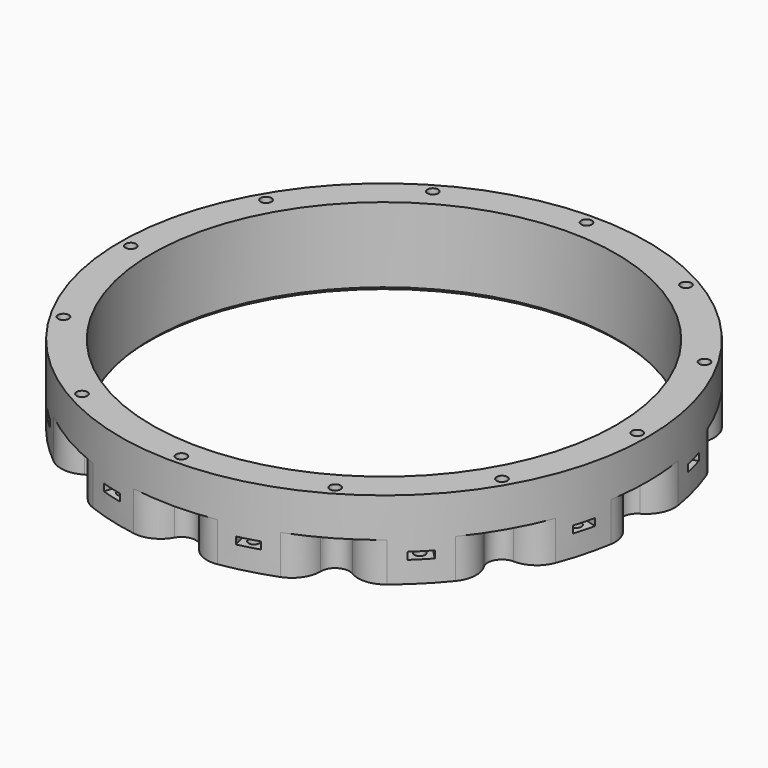
from build123d import *

# Parameters (mm, degrees)
CYLINDER2100_R               = 1.5
CYLINDER2100_DEPTH           = 32
CYLINDER2100_PLACEMENT_ANGLE = 30
CYLINDER2099_R               = 1.5
CYLINDER2099_DEPTH           = 32
CYLINDER2099_PLACEMENT_ANGLE = 60
CYLINDER2104_R               = 1.5
CYLINDER2104_DEPTH           = 32
CYLINDER2105_R               = 1.5
CYLINDER2105_DEPTH           = 32
CYLINDER2105_PLACEMENT_ANGLE = 120
CYLINDER2106_R               = 1.5
CYLINDER2106_DEPTH           = 32
CYLINDER2106_PLACEMENT_ANGLE = 150
CYLINDER2103_R               = 1.5
CYLINDER2103_DEPTH           = 32
CYLINDER2110_R               = 1.5
CYLINDER2110_DEPTH           = 32
CYLINDER2110_PLACEMENT_ANGLE = 210
CYLINDER2109_R               = 1.5
CYLINDER2109_DEPTH           = 32
CYLINDER2109_PLACEMENT_ANGLE = 240
CYLINDER2108_R               = 1.5
CYLINDER2108_DEPTH           = 32
CYLINDER2101_R               = 1.5
CYLINDER2101_DEPTH           = 32
CYLINDER2101_PLACEMENT_ANGLE = 60
CYLINDER2107_R               = 1.5
CYLINDER2107_DEPTH           = 32
CYLINDER2107_PLACEMENT_ANGLE = 30
CYLINDER2102_R               = 1.5
CYLINDER2102_DEPTH           = 32
COMPOUND1114_PLACEMENT_ANGLE = 15
BOX997_W                     = 6
BOX997_H                     = 8
BOX997_DEPTH                 = 2
BOX997_PLACEMENT_ANGLE       = 30
BOX1001_W                    = 6
BOX1001_H                    = 8
BOX1001_DEPTH                = 2
BOX1001_PLACEMENT_ANGLE      = 60
BOX993_W                     = 6
BOX993_H                     = 8
BOX993_DEPTH                 = 2
BOX992_W                     = 6
BOX992_H                     = 8
BOX992_DEPTH                 = 2
BOX992_PLACEMENT_ANGLE       = 120
BOX999_W                     = 6
BOX999_H                     = 8
BOX999_DEPTH                 = 2
BOX999_PLACEMENT_ANGLE       = 150
BOX994_W                     = 6
BOX994_H                     = 8
BOX994_DEPTH                 = 2
BOX998_W                     = 6
BOX998_H                     = 8
BOX998_DEPTH                 = 2
BOX998_PLACEMENT_ANGLE       = 210
BOX995_W                     = 6
BOX995_H                     = 8
BOX995_DEPTH                 = 2
BOX995_PLACEMENT_ANGLE       = 240
BOX1000_W                    = 6
BOX1000_H                    = 8
BOX1000_DEPTH                = 2
BOX1002_W                    = 6
BOX1002_H                    = 8
BOX1002_DEPTH                = 2
BOX1002_PLACEMENT_ANGLE      = 60
BOX1003_W                    = 6
BOX1003_H                    = 8
BOX1003_DEPTH                = 2
BOX1003_PLACEMENT_ANGLE      = 30
BOX996_W                     = 6
BOX996_H                     = 8
BOX996_DEPTH                 = 2
COMPOUND1113_PLACEMENT_ANGLE = 15
CYLINDER2031_R               = 4
CYLINDER2031_DEPTH           = 32
CYLINDER2031_PLACEMENT_ANGLE = 30
CYLINDER2030_R               = 4
CYLINDER2030_DEPTH           = 32
CYLINDER2030_PLACEMENT_ANGLE = 60
CYLINDER2035_R               = 4
CYLINDER2035_DEPTH           = 32
CYLINDER2036_R               = 4
CYLINDER2036_DEPTH           = 32
CYLINDER2036_PLACEMENT_ANGLE = 120
CYLINDER2037_R               = 4
CYLINDER2037_DEPTH           = 32
CYLINDER2037_PLACEMENT_ANGLE = 150
CYLINDER2034_R               = 4
CYLINDER2034_DEPTH           = 32
CYLINDER2039_R               = 4
CYLINDER2039_DEPTH           = 32
CYLINDER2039_PLACEMENT_ANGLE = 210
CYLINDER2038_R               = 4
CYLINDER2038_DEPTH           = 32
CYLINDER2038_PLACEMENT_ANGLE = 240
CYLINDER2041_R               = 4
CYLINDER2041_DEPTH           = 32
CYLINDER2032_R               = 4
CYLINDER2032_DEPTH           = 32
CYLINDER2032_PLACEMENT_ANGLE = 60
CYLINDER2040_R               = 4
CYLINDER2040_DEPTH           = 32
CYLINDER2040_PLACEMENT_ANGLE = 30
CYLINDER2033_R               = 4
CYLINDER2033_DEPTH           = 32
CYLINDER2019_R               = 1.5
CYLINDER2019_DEPTH           = 72
CYLINDER2019_PLACEMENT_ANGLE = 30
CYLINDER2018_R               = 1.5
CYLINDER2018_DEPTH           = 72
CYLINDER2018_PLACEMENT_ANGLE = 60
CYLINDER2023_R               = 1.5
CYLINDER2023_DEPTH           = 72
CYLINDER2024_R               = 1.5
CYLINDER2024_DEPTH           = 72
CYLINDER2024_PLACEMENT_ANGLE = 120
CYLINDER2025_R               = 1.5
CYLINDER2025_DEPTH           = 72
CYLINDER2025_PLACEMENT_ANGLE = 150
CYLINDER2022_R               = 1.5
CYLINDER2022_DEPTH           = 72
CYLINDER2027_R               = 1.5
CYLINDER2027_DEPTH           = 72
CYLINDER2027_PLACEMENT_ANGLE = 210
CYLINDER2026_R               = 1.5
CYLINDER2026_DEPTH           = 72
CYLINDER2026_PLACEMENT_ANGLE = 240
CYLINDER2029_R               = 1.5
CYLINDER2029_DEPTH           = 72
CYLINDER2020_R               = 1.5
CYLINDER2020_DEPTH           = 72
CYLINDER2020_PLACEMENT_ANGLE = 60
CYLINDER2028_R               = 1.5
CYLINDER2028_DEPTH           = 72
CYLINDER2028_PLACEMENT_ANGLE = 30
CYLINDER2021_R               = 1.5
CYLINDER2021_DEPTH           = 72
TUBE051_R                    = 74
TUBE051_R_2                  = 65.1
TUBE051_DEPTH                = 22
FILLET_R                     = 8
FILLET001_R                  = 8
FILLET002_R                  = 8
FILLET003_R                  = 8
FILLET004_R                  = 8
CHAMFER082_SIZE              = 1


with BuildPart() as obj1:
    # Cylinder2100 → Cylinder2100 (new body)
    with BuildSketch(Plane.XY):
        Circle(CYLINDER2100_R)
    extrude(amount=CYLINDER2100_DEPTH)


with BuildPart() as obj1_1:
    # Cylinder2100 placement: moved
    add(obj1.part.moved(Location((35.5, -61.487804, 0))).rotate(Axis((35.5, -61.487804, 0), (0, 0, 1)), CYLINDER2100_PLACEMENT_ANGLE))


with BuildPart() as obj2:
    # Cylinder2099 → Cylinder2099 (new body)
    with BuildSketch(Plane.XY):
        Circle(CYLINDER2099_R)
    extrude(amount=CYLINDER2099_DEPTH)


with BuildPart() as obj2_1:
    # Cylinder2099 placement: moved
    add(obj2.part.moved(Location((61.487804, -35.5, 0))).rotate(Axis((61.487804, -35.5, 0), (0, 0, 1)), CYLINDER2099_PLACEMENT_ANGLE))


with BuildPart() as obj3:
    # Cylinder2104 → Cylinder2104 (new body)
    with BuildSketch(Plane(origin=(71, 0, 0), x_dir=(0, 1, 0), z_dir=(0, 0, 1))):
        Circle(CYLINDER2104_R)
    extrude(amount=CYLINDER2104_DEPTH)


with BuildPart() as obj4:
    # Cylinder2105 → Cylinder2105 (new body)
    with BuildSketch(Plane.XY):
        Circle(CYLINDER2105_R)
    extrude(amount=CYLINDER2105_DEPTH)


with BuildPart() as obj4_1:
    # Cylinder2105 placement: moved
    add(obj4.part.moved(Location((61.487804, 35.5, 0))).rotate(Axis((61.487804, 35.5, 0), (0, 0, 1)), CYLINDER2105_PLACEMENT_ANGLE))


with BuildPart() as obj5:
    # Cylinder2106 → Cylinder2106 (new body)
    with BuildSketch(Plane.XY):
        Circle(CYLINDER2106_R)
    extrude(amount=CYLINDER2106_DEPTH)


with BuildPart() as obj5_1:
    # Cylinder2106 placement: moved
    add(obj5.part.moved(Location((35.5, 61.487804, 0))).rotate(Axis((35.5, 61.487804, 0), (0, 0, 1)), CYLINDER2106_PLACEMENT_ANGLE))


with BuildPart() as obj6:
    # Cylinder2103 → Cylinder2103 (new body)
    with BuildSketch(Plane(origin=(0, 71, 0), x_dir=(-1, 0, 0), z_dir=(0, 0, 1))):
        Circle(CYLINDER2103_R)
    extrude(amount=CYLINDER2103_DEPTH)


with BuildPart() as obj7:
    # Cylinder2110 → Cylinder2110 (new body)
    with BuildSketch(Plane.XY):
        Circle(CYLINDER2110_R)
    extrude(amount=CYLINDER2110_DEPTH)


with BuildPart() as obj7_1:
    # Cylinder2110 placement: moved
    add(obj7.part.moved(Location((-35.5, 61.487804, 0))).rotate(Axis((-35.5, 61.487804, 0), (0, 0, 1)), CYLINDER2110_PLACEMENT_ANGLE))


with BuildPart() as obj8:
    # Cylinder2109 → Cylinder2109 (new body)
    with BuildSketch(Plane.XY):
        Circle(CYLINDER2109_R)
    extrude(amount=CYLINDER2109_DEPTH)


with BuildPart() as obj8_1:
    # Cylinder2109 placement: moved
    add(obj8.part.moved(Location((-61.487804, 35.5, 0))).rotate(Axis((-61.487804, 35.5, 0), (0, 0, 1)), CYLINDER2109_PLACEMENT_ANGLE))


with BuildPart() as obj9:
    # Cylinder2108 → Cylinder2108 (new body)
    with BuildSketch(Plane(origin=(-71, 0, 0), x_dir=(0, -1, 0), z_dir=(0, 0, 1))):
        Circle(CYLINDER2108_R)
    extrude(amount=CYLINDER2108_DEPTH)


with BuildPart() as obj10:
    # Cylinder2101 → Cylinder2101 (new body)
    with BuildSketch(Plane.XY):
        Circle(CYLINDER2101_R)
    extrude(amount=CYLINDER2101_DEPTH)


with BuildPart() as obj10_1:
    # Cylinder2101 placement: moved
    add(obj10.part.moved(Location((-61.487804, -35.5, 0))).rotate(Axis((-61.487804, -35.5, 0), (0, 0, -1)), CYLINDER2101_PLACEMENT_ANGLE))


with BuildPart() as obj11:
    # Cylinder2107 → Cylinder2107 (new body)
    with BuildSketch(Plane.XY):
        Circle(CYLINDER2107_R)
    extrude(amount=CYLINDER2107_DEPTH)


with BuildPart() as obj11_1:
    # Cylinder2107 placement: moved
    add(obj11.part.moved(Location((-35.5, -61.487804, 0))).rotate(Axis((-35.5, -61.487804, 0), (0, 0, -1)), CYLINDER2107_PLACEMENT_ANGLE))


with BuildPart() as compound1114:
    # Cylinder2102 → Cylinder2102 (new body)
    with BuildSketch(Plane(origin=(0, -71, 0), x_dir=(1, 0, 0), z_dir=(0, 0, 1))):
        Circle(CYLINDER2102_R)
    extrude(amount=CYLINDER2102_DEPTH)

    # Compound1114: union obj1, obj2, obj3, obj4, obj5, obj6, obj7, obj8, obj9, obj10, obj11
    add(obj1_1.part)
    add(obj2_1.part)
    add(obj3.part)
    add(obj4_1.part)
    add(obj5_1.part)
    add(obj6.part)
    add(obj7_1.part)
    add(obj8_1.part)
    add(obj9.part)
    add(obj10_1.part)
    add(obj11_1.part)


with BuildPart() as compound1114_1:
    # Compound1114 placement: moved
    add(compound1114.part.moved(Location((0, 0, -13))).rotate(Axis((0, 0, -13), (0, 0, 1)), COMPOUND1114_PLACEMENT_ANGLE))


with BuildPart() as krychle997:
    # Box997 → Box997 (new body)
    with BuildSketch(Plane.XY):
        with Locations((3, 4)):
            Rectangle(BOX997_W, BOX997_H)
    extrude(amount=BOX997_DEPTH)


with BuildPart() as krychle997_1:
    # Box997 placement: moved
    add(krychle997.part.moved(Location((34.901924, -66.451905, 39))).rotate(Axis((34.901924, -66.451905, 39), (0, 0, 1)), BOX997_PLACEMENT_ANGLE))


with BuildPart() as krychle1001:
    # Box1001 → Box1001 (new body)
    with BuildSketch(Plane.XY):
        with Locations((3, 4)):
            Rectangle(BOX1001_W, BOX1001_H)
    extrude(amount=BOX1001_DEPTH)


with BuildPart() as krychle1001_1:
    # Box1001 placement: moved
    add(krychle1001.part.moved(Location((63.451905, -40.098076, 39))).rotate(Axis((63.451905, -40.098076, 39), (0, 0, 1)), BOX1001_PLACEMENT_ANGLE))


with BuildPart() as krychle993:
    # Box993 → Box993 (new body)
    with BuildSketch(Plane(origin=(75, -3, 39), x_dir=(0, 1, 0), z_dir=(0, 0, 1))):
        with Locations((3, 4)):
            Rectangle(BOX993_W, BOX993_H)
    extrude(amount=BOX993_DEPTH)


with BuildPart() as krychle992:
    # Box992 → Box992 (new body)
    with BuildSketch(Plane.XY):
        with Locations((3, 4)):
            Rectangle(BOX992_W, BOX992_H)
    extrude(amount=BOX992_DEPTH)


with BuildPart() as krychle992_1:
    # Box992 placement: moved
    add(krychle992.part.moved(Location((66.451905, 34.901924, 39))).rotate(Axis((66.451905, 34.901924, 39), (0, 0, 1)), BOX992_PLACEMENT_ANGLE))


with BuildPart() as krychle999:
    # Box999 → Box999 (new body)
    with BuildSketch(Plane.XY):
        with Locations((3, 4)):
            Rectangle(BOX999_W, BOX999_H)
    extrude(amount=BOX999_DEPTH)


with BuildPart() as krychle999_1:
    # Box999 placement: moved
    add(krychle999.part.moved(Location((40.098076, 63.451905, 39))).rotate(Axis((40.098076, 63.451905, 39), (0, 0, 1)), BOX999_PLACEMENT_ANGLE))


with BuildPart() as krychle994:
    # Box994 → Box994 (new body)
    with BuildSketch(Plane(origin=(3, 75, 39), x_dir=(-1, 0, 0), z_dir=(0, 0, 1))):
        with Locations((3, 4)):
            Rectangle(BOX994_W, BOX994_H)
    extrude(amount=BOX994_DEPTH)


with BuildPart() as krychle998:
    # Box998 → Box998 (new body)
    with BuildSketch(Plane.XY):
        with Locations((3, 4)):
            Rectangle(BOX998_W, BOX998_H)
    extrude(amount=BOX998_DEPTH)


with BuildPart() as krychle998_1:
    # Box998 placement: moved
    add(krychle998.part.moved(Location((-34.901924, 66.451905, 39))).rotate(Axis((-34.901924, 66.451905, 39), (0, 0, 1)), BOX998_PLACEMENT_ANGLE))


with BuildPart() as krychle995:
    # Box995 → Box995 (new body)
    with BuildSketch(Plane.XY):
        with Locations((3, 4)):
            Rectangle(BOX995_W, BOX995_H)
    extrude(amount=BOX995_DEPTH)


with BuildPart() as krychle995_1:
    # Box995 placement: moved
    add(krychle995.part.moved(Location((-63.451905, 40.098076, 39))).rotate(Axis((-63.451905, 40.098076, 39), (0, 0, 1)), BOX995_PLACEMENT_ANGLE))


with BuildPart() as krychle1000:
    # Box1000 → Box1000 (new body)
    with BuildSketch(Plane(origin=(-75, 3, 39), x_dir=(0, -1, 0), z_dir=(0, 0, 1))):
        with Locations((3, 4)):
            Rectangle(BOX1000_W, BOX1000_H)
    extrude(amount=BOX1000_DEPTH)


with BuildPart() as krychle1002:
    # Box1002 → Box1002 (new body)
    with BuildSketch(Plane.XY):
        with Locations((3, 4)):
            Rectangle(BOX1002_W, BOX1002_H)
    extrude(amount=BOX1002_DEPTH)


with BuildPart() as krychle1002_1:
    # Box1002 placement: moved
    add(krychle1002.part.moved(Location((-66.451905, -34.901924, 39))).rotate(Axis((-66.451905, -34.901924, 39), (0, 0, -1)), BOX1002_PLACEMENT_ANGLE))


with BuildPart() as krychle1003:
    # Box1003 → Box1003 (new body)
    with BuildSketch(Plane.XY):
        with Locations((3, 4)):
            Rectangle(BOX1003_W, BOX1003_H)
    extrude(amount=BOX1003_DEPTH)


with BuildPart() as krychle1003_1:
    # Box1003 placement: moved
    add(krychle1003.part.moved(Location((-40.098076, -63.451905, 39))).rotate(Axis((-40.098076, -63.451905, 39), (0, 0, -1)), BOX1003_PLACEMENT_ANGLE))


with BuildPart() as compound1113:
    # Box996 → Box996 (new body)
    with BuildSketch(Plane(origin=(-3, -75, 39), x_dir=(1, 0, 0), z_dir=(0, 0, 1))):
        with Locations((3, 4)):
            Rectangle(BOX996_W, BOX996_H)
    extrude(amount=BOX996_DEPTH)

    # Compound1113: union Krychle997, Krychle1001, Krychle993, Krychle992, Krychle999, Krychle994, Krychle998, Krychle995, Krychle1000, Krychle1002, Krychle1003
    add(krychle997_1.part)
    add(krychle1001_1.part)
    add(krychle993.part)
    add(krychle992_1.part)
    add(krychle999_1.part)
    add(krychle994.part)
    add(krychle998_1.part)
    add(krychle995_1.part)
    add(krychle1000.part)
    add(krychle1002_1.part)
    add(krychle1003_1.part)


with BuildPart() as compound1113_1:
    # Compound1113 placement: moved
    add(compound1113.part.moved(Location((0, 0, -30))).rotate(Axis((0, 0, -30), (0, 0, 1)), COMPOUND1113_PLACEMENT_ANGLE))


with BuildPart() as obj12:
    # Cylinder2031 → Cylinder2031 (new body)
    with BuildSketch(Plane.XY):
        Circle(CYLINDER2031_R)
    extrude(amount=CYLINDER2031_DEPTH)


with BuildPart() as obj12_1:
    # Cylinder2031 placement: moved
    add(obj12.part.moved(Location((35.5, -61.487804, 0))).rotate(Axis((35.5, -61.487804, 0), (0, 0, 1)), CYLINDER2031_PLACEMENT_ANGLE))


with BuildPart() as obj13:
    # Cylinder2030 → Cylinder2030 (new body)
    with BuildSketch(Plane.XY):
        Circle(CYLINDER2030_R)
    extrude(amount=CYLINDER2030_DEPTH)


with BuildPart() as obj13_1:
    # Cylinder2030 placement: moved
    add(obj13.part.moved(Location((61.487804, -35.5, 0))).rotate(Axis((61.487804, -35.5, 0), (0, 0, 1)), CYLINDER2030_PLACEMENT_ANGLE))


with BuildPart() as obj14:
    # Cylinder2035 → Cylinder2035 (new body)
    with BuildSketch(Plane(origin=(71, 0, 0), x_dir=(0, 1, 0), z_dir=(0, 0, 1))):
        Circle(CYLINDER2035_R)
    extrude(amount=CYLINDER2035_DEPTH)


with BuildPart() as obj15:
    # Cylinder2036 → Cylinder2036 (new body)
    with BuildSketch(Plane.XY):
        Circle(CYLINDER2036_R)
    extrude(amount=CYLINDER2036_DEPTH)


with BuildPart() as obj15_1:
    # Cylinder2036 placement: moved
    add(obj15.part.moved(Location((61.487804, 35.5, 0))).rotate(Axis((61.487804, 35.5, 0), (0, 0, 1)), CYLINDER2036_PLACEMENT_ANGLE))


with BuildPart() as obj16:
    # Cylinder2037 → Cylinder2037 (new body)
    with BuildSketch(Plane.XY):
        Circle(CYLINDER2037_R)
    extrude(amount=CYLINDER2037_DEPTH)


with BuildPart() as obj16_1:
    # Cylinder2037 placement: moved
    add(obj16.part.moved(Location((35.5, 61.487804, 0))).rotate(Axis((35.5, 61.487804, 0), (0, 0, 1)), CYLINDER2037_PLACEMENT_ANGLE))


with BuildPart() as obj17:
    # Cylinder2034 → Cylinder2034 (new body)
    with BuildSketch(Plane(origin=(0, 71, 0), x_dir=(-1, 0, 0), z_dir=(0, 0, 1))):
        Circle(CYLINDER2034_R)
    extrude(amount=CYLINDER2034_DEPTH)


with BuildPart() as obj18:
    # Cylinder2039 → Cylinder2039 (new body)
    with BuildSketch(Plane.XY):
        Circle(CYLINDER2039_R)
    extrude(amount=CYLINDER2039_DEPTH)


with BuildPart() as obj18_1:
    # Cylinder2039 placement: moved
    add(obj18.part.moved(Location((-35.5, 61.487804, 0))).rotate(Axis((-35.5, 61.487804, 0), (0, 0, 1)), CYLINDER2039_PLACEMENT_ANGLE))


with BuildPart() as obj19:
    # Cylinder2038 → Cylinder2038 (new body)
    with BuildSketch(Plane.XY):
        Circle(CYLINDER2038_R)
    extrude(amount=CYLINDER2038_DEPTH)


with BuildPart() as obj19_1:
    # Cylinder2038 placement: moved
    add(obj19.part.moved(Location((-61.487804, 35.5, 0))).rotate(Axis((-61.487804, 35.5, 0), (0, 0, 1)), CYLINDER2038_PLACEMENT_ANGLE))


with BuildPart() as obj20:
    # Cylinder2041 → Cylinder2041 (new body)
    with BuildSketch(Plane(origin=(-71, 0, 0), x_dir=(0, -1, 0), z_dir=(0, 0, 1))):
        Circle(CYLINDER2041_R)
    extrude(amount=CYLINDER2041_DEPTH)


with BuildPart() as obj21:
    # Cylinder2032 → Cylinder2032 (new body)
    with BuildSketch(Plane.XY):
        Circle(CYLINDER2032_R)
    extrude(amount=CYLINDER2032_DEPTH)


with BuildPart() as obj21_1:
    # Cylinder2032 placement: moved
    add(obj21.part.moved(Location((-61.487804, -35.5, 0))).rotate(Axis((-61.487804, -35.5, 0), (0, 0, -1)), CYLINDER2032_PLACEMENT_ANGLE))


with BuildPart() as obj22:
    # Cylinder2040 → Cylinder2040 (new body)
    with BuildSketch(Plane.XY):
        Circle(CYLINDER2040_R)
    extrude(amount=CYLINDER2040_DEPTH)


with BuildPart() as obj22_1:
    # Cylinder2040 placement: moved
    add(obj22.part.moved(Location((-35.5, -61.487804, 0))).rotate(Axis((-35.5, -61.487804, 0), (0, 0, -1)), CYLINDER2040_PLACEMENT_ANGLE))


with BuildPart() as compound1086:
    # Cylinder2033 → Cylinder2033 (new body)
    with BuildSketch(Plane(origin=(0, -71, 0), x_dir=(1, 0, 0), z_dir=(0, 0, 1))):
        Circle(CYLINDER2033_R)
    extrude(amount=CYLINDER2033_DEPTH)

    # Compound1086: union obj12, obj13, obj14, obj15, obj16, obj17, obj18, obj19, obj20, obj21, obj22
    add(obj12_1.part)
    add(obj13_1.part)
    add(obj14.part)
    add(obj15_1.part)
    add(obj16_1.part)
    add(obj17.part)
    add(obj18_1.part)
    add(obj19_1.part)
    add(obj20.part)
    add(obj21_1.part)
    add(obj22_1.part)


with BuildPart() as compound1086_1:
    # Compound1086 placement: moved
    add(compound1086.part.moved(Location((0, 0, -18))))


with BuildPart() as obj23:
    # Cylinder2019 → Cylinder2019 (new body)
    with BuildSketch(Plane.XY):
        Circle(CYLINDER2019_R)
    extrude(amount=CYLINDER2019_DEPTH)


with BuildPart() as obj23_1:
    # Cylinder2019 placement: moved
    add(obj23.part.moved(Location((35.5, -61.487804, 0))).rotate(Axis((35.5, -61.487804, 0), (0, 0, 1)), CYLINDER2019_PLACEMENT_ANGLE))


with BuildPart() as obj24:
    # Cylinder2018 → Cylinder2018 (new body)
    with BuildSketch(Plane.XY):
        Circle(CYLINDER2018_R)
    extrude(amount=CYLINDER2018_DEPTH)


with BuildPart() as obj24_1:
    # Cylinder2018 placement: moved
    add(obj24.part.moved(Location((61.487804, -35.5, 0))).rotate(Axis((61.487804, -35.5, 0), (0, 0, 1)), CYLINDER2018_PLACEMENT_ANGLE))


with BuildPart() as obj25:
    # Cylinder2023 → Cylinder2023 (new body)
    with BuildSketch(Plane(origin=(71, 0, 0), x_dir=(0, 1, 0), z_dir=(0, 0, 1))):
        Circle(CYLINDER2023_R)
    extrude(amount=CYLINDER2023_DEPTH)


with BuildPart() as obj26:
    # Cylinder2024 → Cylinder2024 (new body)
    with BuildSketch(Plane.XY):
        Circle(CYLINDER2024_R)
    extrude(amount=CYLINDER2024_DEPTH)


with BuildPart() as obj26_1:
    # Cylinder2024 placement: moved
    add(obj26.part.moved(Location((61.487804, 35.5, 0))).rotate(Axis((61.487804, 35.5, 0), (0, 0, 1)), CYLINDER2024_PLACEMENT_ANGLE))


with BuildPart() as obj27:
    # Cylinder2025 → Cylinder2025 (new body)
    with BuildSketch(Plane.XY):
        Circle(CYLINDER2025_R)
    extrude(amount=CYLINDER2025_DEPTH)


with BuildPart() as obj27_1:
    # Cylinder2025 placement: moved
    add(obj27.part.moved(Location((35.5, 61.487804, 0))).rotate(Axis((35.5, 61.487804, 0), (0, 0, 1)), CYLINDER2025_PLACEMENT_ANGLE))


with BuildPart() as obj28:
    # Cylinder2022 → Cylinder2022 (new body)
    with BuildSketch(Plane(origin=(0, 71, 0), x_dir=(-1, 0, 0), z_dir=(0, 0, 1))):
        Circle(CYLINDER2022_R)
    extrude(amount=CYLINDER2022_DEPTH)


with BuildPart() as obj29:
    # Cylinder2027 → Cylinder2027 (new body)
    with BuildSketch(Plane.XY):
        Circle(CYLINDER2027_R)
    extrude(amount=CYLINDER2027_DEPTH)


with BuildPart() as obj29_1:
    # Cylinder2027 placement: moved
    add(obj29.part.moved(Location((-35.5, 61.487804, 0))).rotate(Axis((-35.5, 61.487804, 0), (0, 0, 1)), CYLINDER2027_PLACEMENT_ANGLE))


with BuildPart() as obj30:
    # Cylinder2026 → Cylinder2026 (new body)
    with BuildSketch(Plane.XY):
        Circle(CYLINDER2026_R)
    extrude(amount=CYLINDER2026_DEPTH)


with BuildPart() as obj30_1:
    # Cylinder2026 placement: moved
    add(obj30.part.moved(Location((-61.487804, 35.5, 0))).rotate(Axis((-61.487804, 35.5, 0), (0, 0, 1)), CYLINDER2026_PLACEMENT_ANGLE))


with BuildPart() as obj31:
    # Cylinder2029 → Cylinder2029 (new body)
    with BuildSketch(Plane(origin=(-71, 0, 0), x_dir=(0, -1, 0), z_dir=(0, 0, 1))):
        Circle(CYLINDER2029_R)
    extrude(amount=CYLINDER2029_DEPTH)


with BuildPart() as obj32:
    # Cylinder2020 → Cylinder2020 (new body)
    with BuildSketch(Plane.XY):
        Circle(CYLINDER2020_R)
    extrude(amount=CYLINDER2020_DEPTH)


with BuildPart() as obj32_1:
    # Cylinder2020 placement: moved
    add(obj32.part.moved(Location((-61.487804, -35.5, 0))).rotate(Axis((-61.487804, -35.5, 0), (0, 0, -1)), CYLINDER2020_PLACEMENT_ANGLE))


with BuildPart() as obj33:
    # Cylinder2028 → Cylinder2028 (new body)
    with BuildSketch(Plane.XY):
        Circle(CYLINDER2028_R)
    extrude(amount=CYLINDER2028_DEPTH)


with BuildPart() as obj33_1:
    # Cylinder2028 placement: moved
    add(obj33.part.moved(Location((-35.5, -61.487804, 0))).rotate(Axis((-35.5, -61.487804, 0), (0, 0, -1)), CYLINDER2028_PLACEMENT_ANGLE))


with BuildPart() as compound1085:
    # Cylinder2021 → Cylinder2021 (new body)
    with BuildSketch(Plane(origin=(0, -71, 0), x_dir=(1, 0, 0), z_dir=(0, 0, 1))):
        Circle(CYLINDER2021_R)
    extrude(amount=CYLINDER2021_DEPTH)

    # Compound1085: union obj23, obj24, obj25, obj26, obj27, obj28, obj29, obj30, obj31, obj32, obj33
    add(obj23_1.part)
    add(obj24_1.part)
    add(obj25.part)
    add(obj26_1.part)
    add(obj27_1.part)
    add(obj28.part)
    add(obj29_1.part)
    add(obj30_1.part)
    add(obj31.part)
    add(obj32_1.part)
    add(obj33_1.part)


with BuildPart() as compound1085_1:
    # Compound1085 placement: moved
    add(compound1085.part.moved(Location((0, 0, -4))))


with BuildPart() as chamfer082:
    # Tube051 → Tube051 (new body)
    with BuildSketch(Plane.XY.offset(3)):
        Circle(TUBE051_R)
        Circle(TUBE051_R_2, mode=Mode.SUBTRACT)
    extrude(amount=TUBE051_DEPTH)

    # Cut679: cut Compound1085
    add(compound1085_1.part, mode=Mode.SUBTRACT)

    # Cut680: cut Compound1086
    add(compound1086_1.part, mode=Mode.SUBTRACT)

    # Fillet
    fillet_edges = [chamfer082.edges().sort_by_distance(p)[0] for p in [
        (-65.393498, 34.636547, 8.5),
        (-62.692879, 39.314157, 8.5),
        (-39.314157, 62.692879, 8.5),
        (-34.636547, 65.393498, 8.5),
    ]]
    fillet(fillet_edges, radius=FILLET_R)

    # Fillet001
    fillet001_edges = [chamfer082.edges().sort_by_distance(p)[0] for p in [
        (-2.700619, 73.950704, 8.5),
        (2.700619, 73.950704, 8.5),
        (34.636547, 65.393498, 8.5),
        (39.314157, 62.692879, 8.5),
    ]]
    fillet(fillet001_edges, radius=FILLET001_R)

    # Fillet002
    fillet002_edges = [chamfer082.edges().sort_by_distance(p)[0] for p in [
        (62.692879, 39.314157, 8.5),
        (65.393498, 34.636547, 8.5),
        (73.950704, 2.700619, 8.5),
        (73.950704, -2.700619, 8.5),
    ]]
    fillet(fillet002_edges, radius=FILLET002_R)

    # Fillet003
    fillet003_edges = [chamfer082.edges().sort_by_distance(p)[0] for p in [
        (65.393498, -34.636547, 8.5),
        (62.692879, -39.314157, 8.5),
        (39.314157, -62.692879, 8.5),
        (34.636547, -65.393498, 8.5),
        (2.700619, -73.950704, 8.5),
        (-2.700619, -73.950704, 8.5),
    ]]
    fillet(fillet003_edges, radius=FILLET003_R)

    # Fillet004
    fillet004_edges = [chamfer082.edges().sort_by_distance(p)[0] for p in [
        (-34.636547, -65.393498, 8.5),
        (-39.314157, -62.692879, 8.5),
        (-62.692879, -39.314157, 8.5),
        (-65.393498, -34.636547, 8.5),
        (-73.950704, -2.700619, 8.5),
        (-73.950704, 2.700619, 8.5),
    ]]
    fillet(fillet004_edges, radius=FILLET004_R)

    # Cut703: cut Compound1113
    add(compound1113_1.part, mode=Mode.SUBTRACT)

    # Cut704: cut Compound1114
    add(compound1114_1.part, mode=Mode.SUBTRACT)

    # Chamfer082
    chamfer082_edges = [chamfer082.edges().sort_by_distance(p)[0] for p in [
        (-65.1, 0, 3),
    ]]
    chamfer(chamfer082_edges, length=CHAMFER082_SIZE)


solid = chamfer082.part
